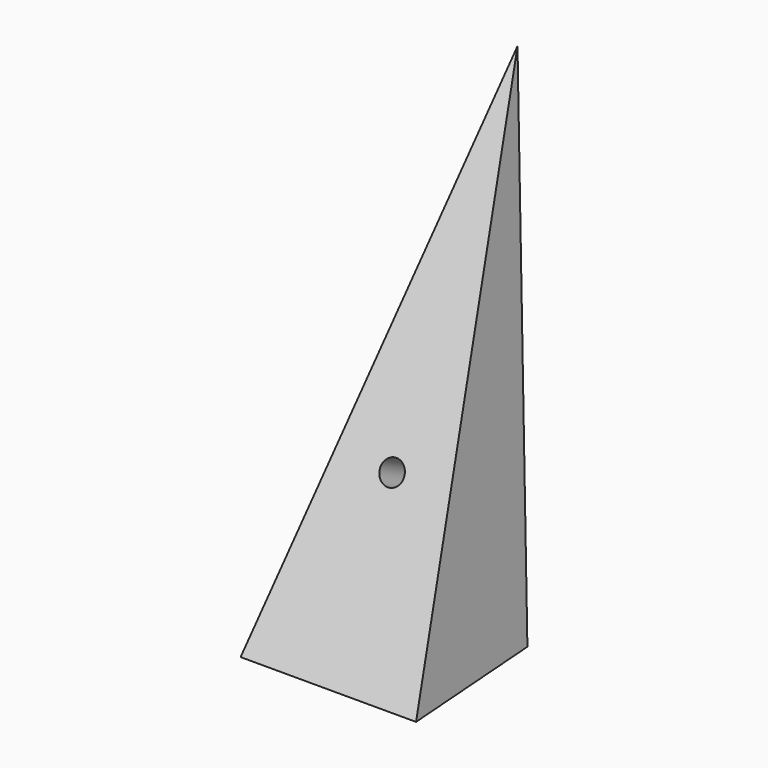
from build123d import *

# Parameters (mm, degrees)
F1_DEPTH = 50.8
F3_DEPTH = 61.1638386197
F4_R     = 3.4925
F5_DEPTH = 28.37362


with BuildPart() as f1:
    # F0 (on Right) → F1 (new body)
    with BuildSketch(Plane.YZ):
        Polygon((46.165614252, 136.1587293462), (-22.2928433907, 0), (22.1571566093, 0), align=None)
    extrude(amount=F1_DEPTH)

    # F2 (on face) → F3 (cut, through all)
    with BuildSketch(Plane(origin=(0, -17.7945295552, 8.9468082853), x_dir=(1, 0, 0), z_dir=(0, -0.8934299826, 0.449202478))):
        Polygon((0, 142.3859995079), (0, -10.0140004921), (25.4, 142.3859995079), align=None)
        Polygon((50.8, 142.3859995079), (25.4, 142.3859995079), (50.8, -10.0140004921), align=None)
    extrude(amount=-F3_DEPTH, mode=Mode.SUBTRACT)

    # F4 (on face) → F5 (cut)
    with BuildSketch(Plane(origin=(0, -17.7945295552, 8.9468082853), x_dir=(1, 0, 0), z_dir=(0, -0.8934299826, 0.449202478))):
        with Locations((25.4, 41.371035104)):
            Circle(F4_R)
    extrude(amount=-F5_DEPTH, mode=Mode.SUBTRACT)


solid = f1.part
